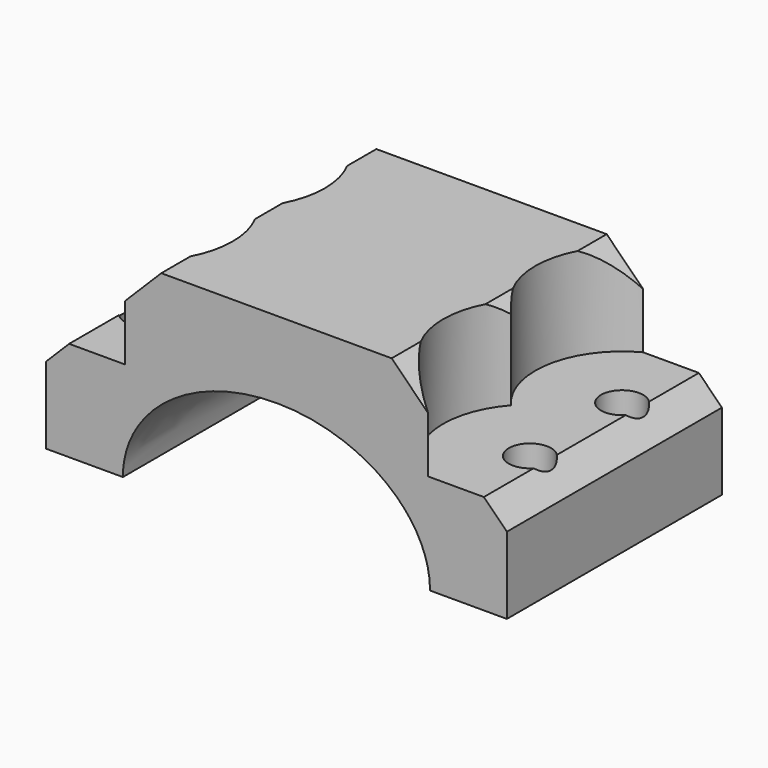
from build123d import *

# Parameters (mm, degrees)
PAD025_DEPTH        = 35
HOLE025_D           = 5.5
HOLE025_DEPTH       = 25
HOLE025_CBORE_D     = 22.6
HOLE025_CBORE_DEPTH = 12
HOLE025_TIPS_R      = 2.75
POCKET001_DEPTH     = 48


with BuildPart() as part:
    # Sketch054 → Pad025 (new body)
    with BuildSketch(Plane.XZ):
        with BuildLine():
            Line((50, -1e-05), (60, 0))
            Line((60, 0), (60, 25))
            Line((60, 25), (0, 25))
            Line((0, 25), (0, 0))
            Line((0, 0), (10, 5e-06))
            add(Edge.make_bspline(
                [(30, 15), (10.000006, 15), (10, 5e-06)],
                knots=[4.712389, 4.712389, 4.712389, 6.283185, 6.283185, 6.283185], degree=2, weights=[1, 0.707107, 1]))
            add(Edge.make_bspline(
                [(50, -1e-05), (50.000013, 15), (30, 15)],
                knots=[3.141592, 3.141592, 3.141592, 4.712389, 4.712389, 4.712389], degree=2, weights=[1, 0.707107, 1]))
        make_face()
    extrude(amount=PAD025_DEPTH)

    # Hole025
    with Locations(Plane.XY.offset(25)):
        with Locations((55, -25), (55, -10), (5, -25), (5, -10)):
            CounterBoreHole(HOLE025_D / 2, HOLE025_CBORE_D / 2, HOLE025_CBORE_DEPTH, depth=HOLE025_DEPTH)

    # Hole025 tips → Hole025 tip 1 section 0
    with BuildSketch(Plane.XY, mode=Mode.PRIVATE) as hole025_tip_1_s0:
        with Locations((55, -25)):
            Circle(HOLE025_TIPS_R)
    loft([hole025_tip_1_s0.sketch, Vertex(55, -25, -1.652367)], mode=Mode.SUBTRACT)

    # Hole025 tips → Hole025 tip 2 section 0
    with BuildSketch(Plane.XY, mode=Mode.PRIVATE) as hole025_tip_2_s0:
        with Locations((55, -10)):
            Circle(HOLE025_TIPS_R)
    loft([hole025_tip_2_s0.sketch, Vertex(55, -10, -1.652367)], mode=Mode.SUBTRACT)

    # Hole025 tips → Hole025 tip 3 section 0
    with BuildSketch(Plane.XY, mode=Mode.PRIVATE) as hole025_tip_3_s0:
        with Locations((5, -25)):
            Circle(HOLE025_TIPS_R)
    loft([hole025_tip_3_s0.sketch, Vertex(5, -25, -1.652367)], mode=Mode.SUBTRACT)

    # Hole025 tips → Hole025 tip 4 section 0
    with BuildSketch(Plane.XY, mode=Mode.PRIVATE) as hole025_tip_4_s0:
        with Locations((5, -10)):
            Circle(HOLE025_TIPS_R)
    loft([hole025_tip_4_s0.sketch, Vertex(5, -10, -1.652367)], mode=Mode.SUBTRACT)

    # Sketch056 → Pocket001 (cut)
    with BuildSketch(Plane.XZ):
        Polygon((60, 10), (40, 30), (60, 30), align=None)
        Polygon((20, 30), (0, 10), (0, 30), align=None)
    extrude(amount=POCKET001_DEPTH, mode=Mode.SUBTRACT)


with BuildPart() as part_1:
    # Body057 placement: moved
    add(part.part.moved(Location((55, 65, 40))))


solid = part_1.part
